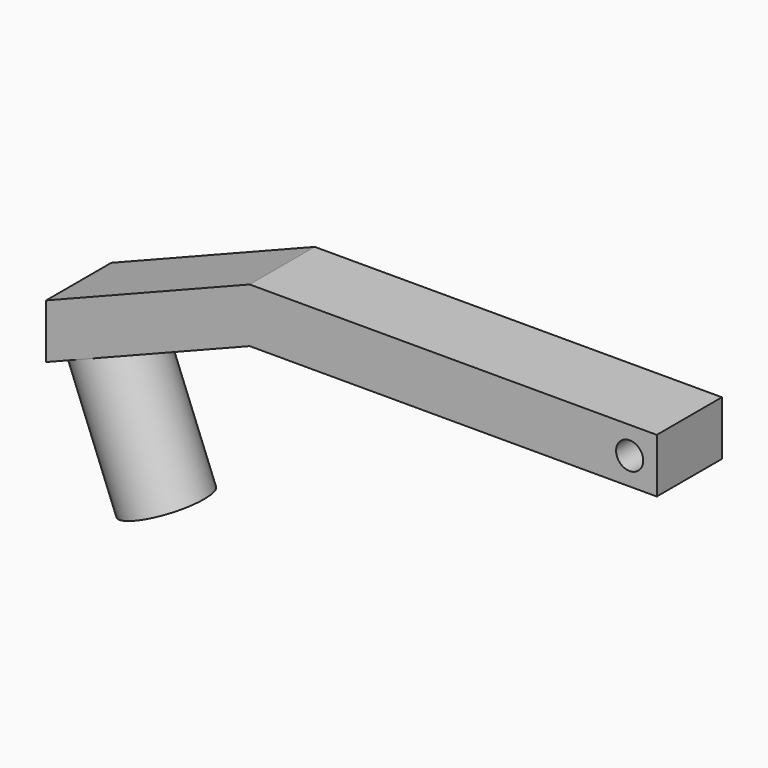
from build123d import *

# Parameters (mm, degrees)
F0_W     = 15
F0_H     = 2
F0_R     = 0.5
F1_DEPTH = 3
F2_R     = 1.5
F3_DEPTH = 5


with BuildPart() as f1:
    # F0 (on Front) → F1 (new body)
    with BuildSketch(Plane.XZ):
        with Locations((-1.4090953767, 14.3183305617)):
            Rectangle(F0_W, F0_H)
        with Locations((5.0909046233, 14.3183305617)):
            Circle(F0_R, mode=Mode.SUBTRACT)
        Polygon((-8.9090953767, 13.3183305617), (-8.9090953767, 15.3183305617), (-16.4090953767, 12.3621613234), (-16.4090953767, 10.3621613234), align=None)
    extrude(amount=F1_DEPTH)

    # F2 (on face) → F3 (join)
    with BuildSketch(Plane(origin=(-5.7415974535, 0, 14.5668185514), x_dir=(0.9303396878, 0, 0.3666988755), z_dir=(0.3666988755, 0, -0.9303396878))):
        with Locations((-9.9662397649, 1.5)):
            Circle(F2_R)
    extrude(amount=F3_DEPTH)


solid = f1.part
